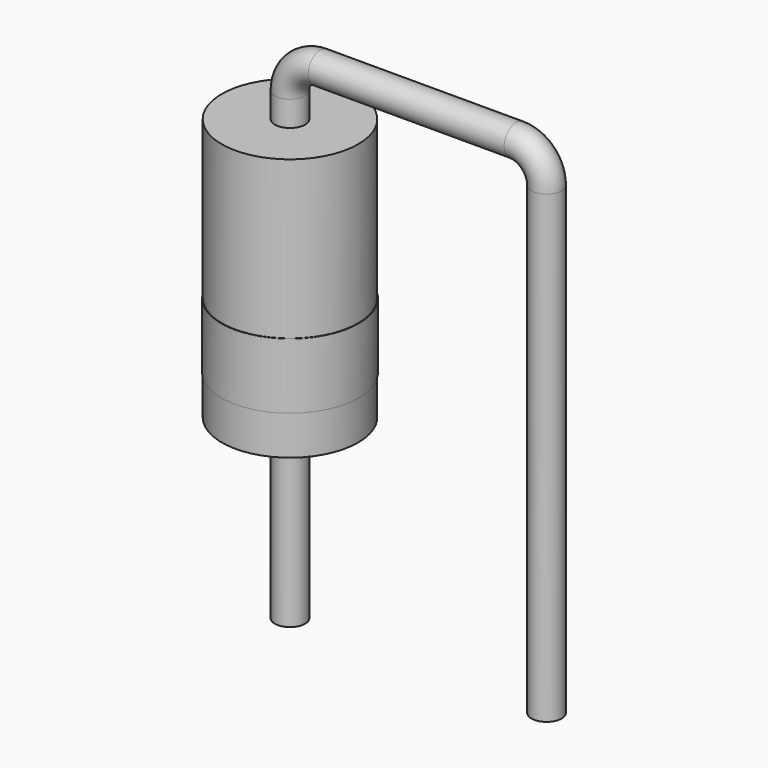
from build123d import *

# Parameters (mm, degrees)
SKETCH001_R = 0.3
SKETCH002_W = 1.35
SKETCH002_H = 5.2
SKETCH003_W = 1.36
SKETCH003_H = 1.3


with BuildPart() as sweep_body:
    # Sweep: sweep along a path in Sketch
    with BuildLine(Plane.XZ) as sweep_path:
        Line((0, -3), (0, 6.2))
        ThreePointArc((0, 6.2), (0.175736, 6.624264), (0.6, 6.8))
        Line((0.6, 6.8), (4.48, 6.8))
        ThreePointArc((4.48, 6.8), (4.904264, 6.624264), (5.08, 6.2))
        Line((5.08, 6.2), (5.08, -3))
    # Sketch001 → Sweep (sweep)
    with BuildSketch(Plane.XY):
        Circle(SKETCH001_R)
    sweep(path=sweep_path.line)


with BuildPart() as revolution:
    # Sketch002 → Revolution (revolve)
    with BuildSketch(Plane.XZ):
        with Locations((0.675, 3.1)):
            Rectangle(SKETCH002_W, SKETCH002_H)
    revolve(axis=Axis((0, 0, 0.5), (0, 0, 1)))


with BuildPart() as revolution001:
    # Sketch003 → Revolution001 (revolve)
    with BuildSketch(Plane.XZ):
        with Locations((0.68, 1.93)):
            Rectangle(SKETCH003_W, SKETCH003_H)
    revolve(axis=Axis((0, 0, 0), (0, 0, 1)))


solid = Compound([sweep_body.part, revolution.part, revolution001.part])
